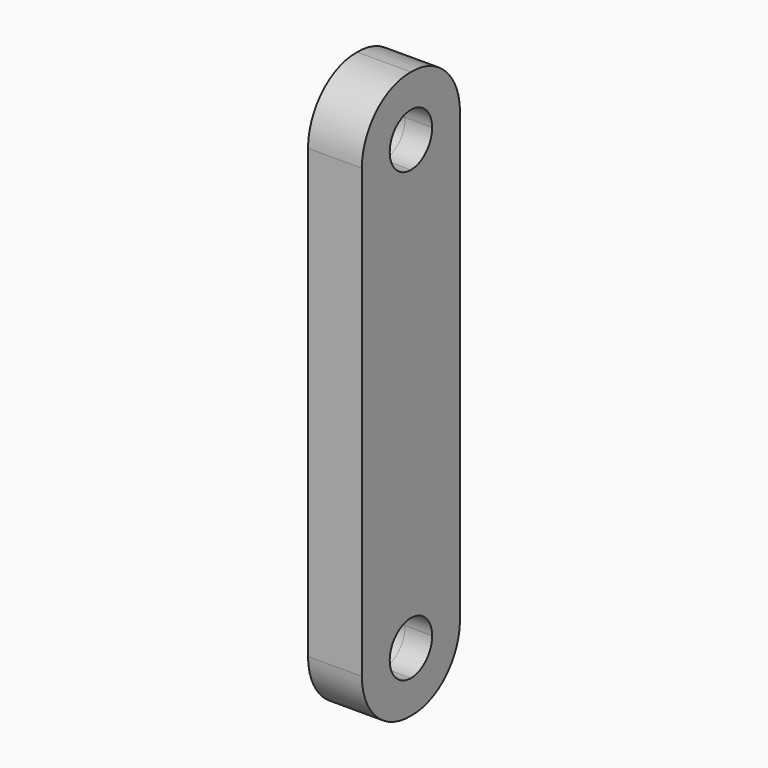
from build123d import *

# Parameters (mm, degrees)
F1_DEPTH = 1.625


with BuildPart() as f1:
    # F0 (on Right) → F1 (new body, symmetric)
    with BuildSketch(Plane.YZ):
        with BuildLine():
            Line((3.7, -13.5), (3.7, 13.5))
            Line((3.7, 13.5), (1.6, 13.5))
            ThreePointArc((1.6, 13.5), (1.1313708499, 12.3686291501), (0, 11.9))
            Line((0, 11.9), (0, 0))
            Line((0, 0), (0, -11.9))
            ThreePointArc((0, -11.9), (1.1313708499, -12.3686291501), (1.6, -13.5))
            Line((1.6, -13.5), (3.7, -13.5))
        make_face()
        with BuildLine():
            Line((0, 0), (0, 11.9))
            ThreePointArc((0, 11.9), (-1.1313708499, 12.3686291501), (-1.6, 13.5))
            Line((-1.6, 13.5), (-3.7, 13.5))
            Line((-3.7, 13.5), (-3.7, -13.5))
            Line((-3.7, -13.5), (-1.6, -13.5))
            ThreePointArc((-1.6, -13.5), (-1.1313708499, -12.3686291501), (0, -11.9))
            Line((0, -11.9), (0, 0))
        make_face()
        with BuildLine():
            Line((0, 15.1), (0, 17.1))
            ThreePointArc((0, 17.1), (-2.6100688755, 16.0811818998), (-3.7, 13.5))
            Line((-3.7, 13.5), (-1.6, 13.5))
            ThreePointArc((-1.6, 13.5), (-1.1313708499, 14.6313708499), (0, 15.1))
        make_face()
        with BuildLine():
            Line((1.6, 13.5), (3.7, 13.5))
            ThreePointArc((3.7, 13.5), (2.6100688755, 16.0811818998), (0, 17.1))
            Line((0, 17.1), (0, 15.1))
            ThreePointArc((0, 15.1), (1.1313708499, 14.6313708499), (1.6, 13.5))
        make_face()
        with BuildLine():
            ThreePointArc((0, -17.1), (2.6100688755, -16.0811818998), (3.7, -13.5))
            Line((3.7, -13.5), (1.6, -13.5))
            ThreePointArc((1.6, -13.5), (1.1313708499, -14.6313708499), (0, -15.1))
            Line((0, -15.1), (0, -17.1))
        make_face()
        with BuildLine():
            ThreePointArc((-3.7, -13.5), (-2.6100688755, -16.0811818998), (0, -17.1))
            Line((0, -17.1), (0, -15.1))
            ThreePointArc((0, -15.1), (-1.1313708499, -14.6313708499), (-1.6, -13.5))
            Line((-1.6, -13.5), (-3.7, -13.5))
        make_face()
    extrude(amount=F1_DEPTH, both=True)


solid = f1.part
